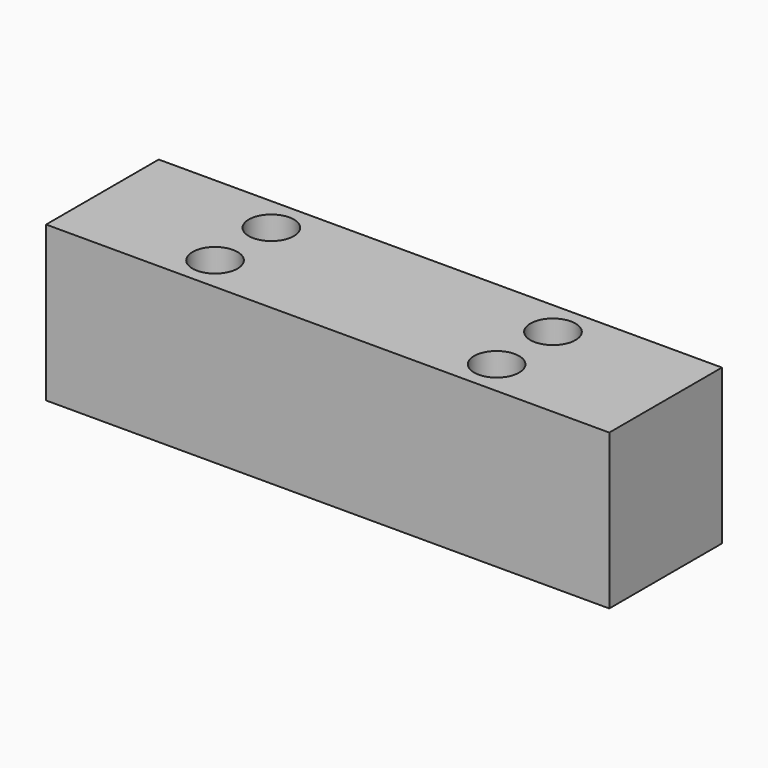
from build123d import *

# Parameters (mm, degrees)
SKETCH_W  = 80
SKETCH_H  = 20
SKETCH_R  = 3.2
PAD_DEPTH = 22


with BuildPart() as part:
    # Sketch → Pad (new body)
    with BuildSketch(Plane.XY):
        with Locations((40, 10)):
            Rectangle(SKETCH_W, SKETCH_H)
        with Locations((20, 15)):
            Circle(SKETCH_R, mode=Mode.SUBTRACT)
        with Locations((20, 5)):
            Circle(SKETCH_R, mode=Mode.SUBTRACT)
        with Locations((60, 15)):
            Circle(SKETCH_R, mode=Mode.SUBTRACT)
        with Locations((60, 5)):
            Circle(SKETCH_R, mode=Mode.SUBTRACT)
    extrude(amount=PAD_DEPTH)


solid = part.part
